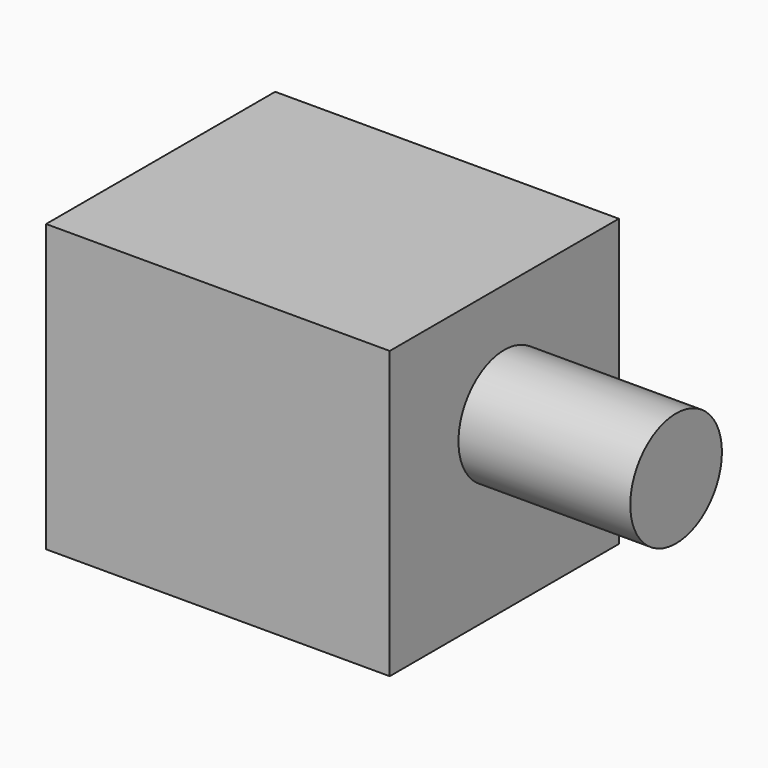
from build123d import *

# Parameters (mm, degrees)
F0_W     = 60
F0_H     = 50
F1_DEPTH = 50
F2_R     = 10
F3_DEPTH = 30
F4_R     = 10
F5_DEPTH = 30


with BuildPart() as f1:
    # F0 (on Top) → F1 (new body)
    with BuildSketch(Plane.XY):
        Rectangle(F0_W, F0_H)
    extrude(amount=F1_DEPTH)

    # F2 (on face) → F3 (join)
    with BuildSketch(Plane.YZ.offset(30)):
        with Locations((0, 30)):
            Circle(F2_R)
    extrude(amount=F3_DEPTH)

    # F4 (on face) → F5 (cut)
    with BuildSketch(Plane(origin=(-30, 0, 0), x_dir=(0, -1, 0), z_dir=(-1, 0, 0))):
        with Locations((0, 20)):
            Circle(F4_R)
    extrude(amount=-F5_DEPTH, mode=Mode.SUBTRACT)


solid = f1.part
